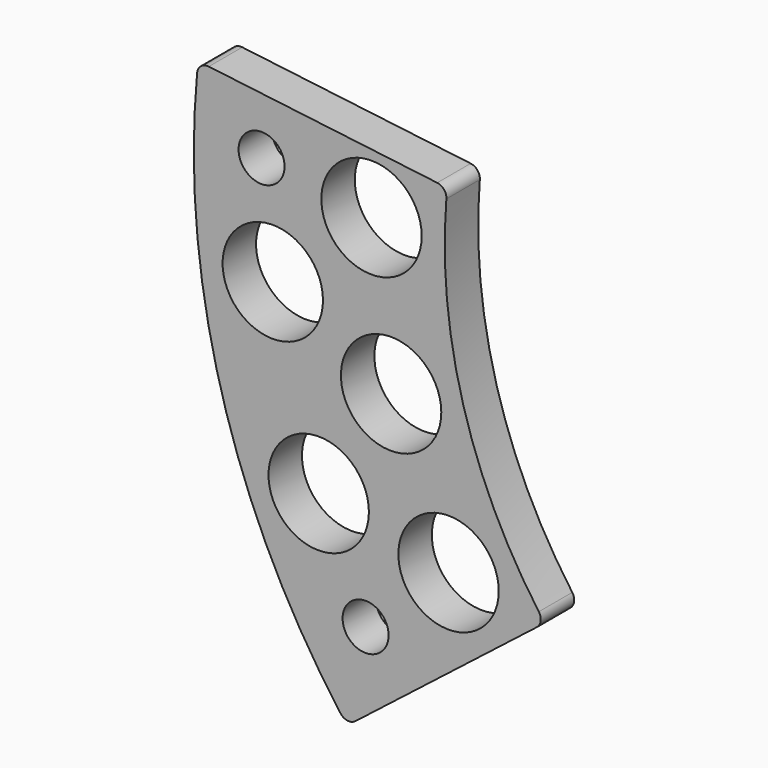
from build123d import *

# Parameters (mm, degrees)
F0_R     = 1.1
F0_R_2   = 2.4
F1_DEPTH = 2


with BuildPart() as f1:
    # F0 (on Front) → F1 (new body)
    with BuildSketch(Plane.XZ):
        with BuildLine():
            ThreePointArc((-19.499595, -13.991633), (-23.127131, -6.413721), (-23.920639, 1.950137))
            ThreePointArc((-23.920639, 1.950137), (-24.031346, 2.306574), (-24.358051, 2.487038))
            Line((-24.358051, 2.487038), (-35.282341, 3.828372))
            ThreePointArc((-35.282341, 3.828372), (-35.656626, 3.721729), (-35.841068, 3.37903))
            ThreePointArc((-35.841068, 3.37903), (-34.690696, -9.620582), (-28.981463, -21.355908))
            ThreePointArc((-28.981463, -21.355908), (-28.646861, -21.554664), (-28.271112, -21.453304))
            Line((-28.271112, -21.453304), (-19.598006, -14.677131))
            ThreePointArc((-19.598006, -14.677131), (-19.41091, -14.354178), (-19.499595, -13.991633))
        make_face()
        with Locations((-27.783877, -17.324135)):
            Circle(F0_R, mode=Mode.SUBTRACT)
        with Locations((-30.026085, -12.437212)):
            Circle(F0_R_2, mode=Mode.SUBTRACT)
        with Locations((-23.815699, -13.75)):
            Circle(F0_R_2, mode=Mode.SUBTRACT)
        with Locations((-26.56296, -7.117524)):
            Circle(F0_R_2, mode=Mode.SUBTRACT)
        with Locations((-32.221958, -4.242101)):
            Circle(F0_R_2, mode=Mode.SUBTRACT)
        with Locations((-32.758802, 0.800339)):
            Circle(F0_R, mode=Mode.SUBTRACT)
        with Locations((-27.5, 0)):
            Circle(F0_R_2, mode=Mode.SUBTRACT)
    extrude(amount=F1_DEPTH)


solid = f1.part
